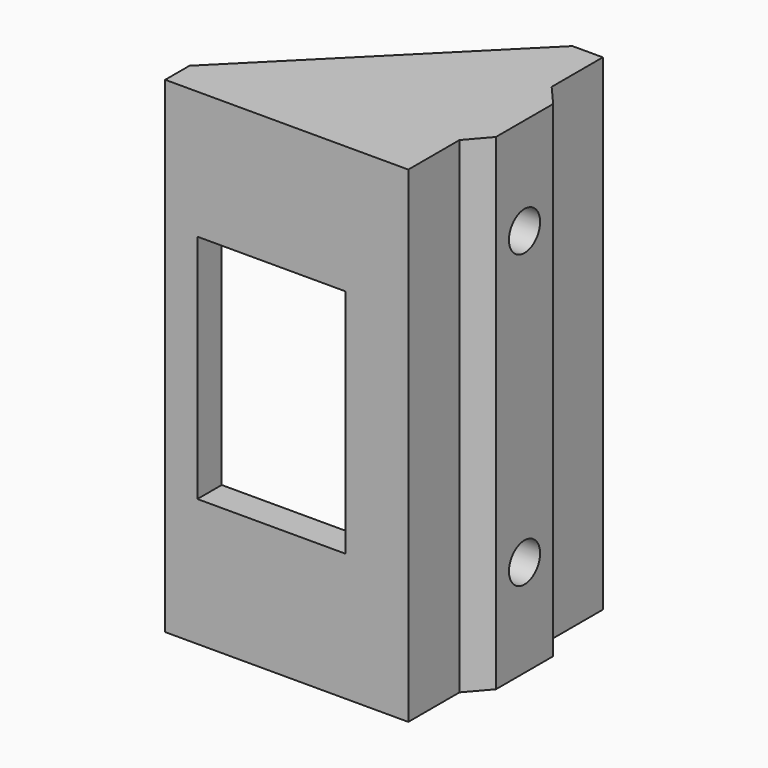
from build123d import *

# Parameters (mm, degrees)
PAD_DEPTH       = 40
PAD001_DEPTH    = 3
PAD002_DEPTH    = 3
PAD003_DEPTH    = 40
SKETCH004_W     = 12.2
SKETCH004_H     = 19
POCKET_DEPTH    = 2.5
SKETCH005_R     = 1.6
POCKET001_DEPTH = 4.06
CHAMFER_SIZE    = 2


with BuildPart() as part:
    # Sketch → Pad (new body)
    with BuildSketch(Plane.XY):
        Polygon((0, 0), (0, 20), (-2.5, 20), (-2.5, 2.5), (-20, 2.5), (-20, 0), align=None)
    extrude(amount=PAD_DEPTH)

    # Sketch001 (on Face8 of Pad) → Pad001 (join)
    with BuildSketch(Plane.XY.offset(40)):
        Polygon((-2.5, 20), (-20, 2.5), (-2.5, 2.5), align=None)
    extrude(amount=-PAD001_DEPTH)

    # Sketch002 (on Face4 of Pad001) → Pad002 (join)
    with BuildSketch(Plane(origin=(0, 0, 0), x_dir=(1, 0, 0), z_dir=(0, 0, -1))):
        Polygon((-20, -2.5), (-2.5, -20), (-2.5, -2.5), align=None)
    extrude(amount=-PAD002_DEPTH)

    # Sketch003 (on Face4 of Pad002) → Pad003 (join)
    with BuildSketch(Plane(origin=(0, 0, 0), x_dir=(1, 0, 0), z_dir=(0, 0, -1))):
        Polygon((0, -5.26), (0, -14.74), (1.56, -12.94), (1.56, -7.06), align=None)
    extrude(amount=-PAD003_DEPTH)

    # Sketch004 (on Face18 of Pad003) → Pocket (cut)
    with BuildSketch(Plane(origin=(0, 2.5, 0), x_dir=(-1, 0, 0), z_dir=(0, 1, 0))):
        with Locations((11.25, 20)):
            Rectangle(SKETCH004_W, SKETCH004_H)
    extrude(amount=-POCKET_DEPTH, mode=Mode.SUBTRACT)

    # Sketch005 (on Face12 of Pocket) → Pocket001 (cut)
    with BuildSketch(Plane.YZ.offset(1.56)):
        with Locations((10, 32)):
            Circle(SKETCH005_R)
        with Locations((10, 8)):
            Circle(SKETCH005_R)
    extrude(amount=-POCKET001_DEPTH, mode=Mode.SUBTRACT)

    # Chamfer
    chamfer_edges = [part.edges().sort_by_distance(p)[0] for p in [
        (-11.25, 2.5, 3),
        (-2.5, 2.5, 20),
        (-11.25, 2.5, 37),
    ]]
    chamfer(chamfer_edges, length=CHAMFER_SIZE)


solid = part.part
